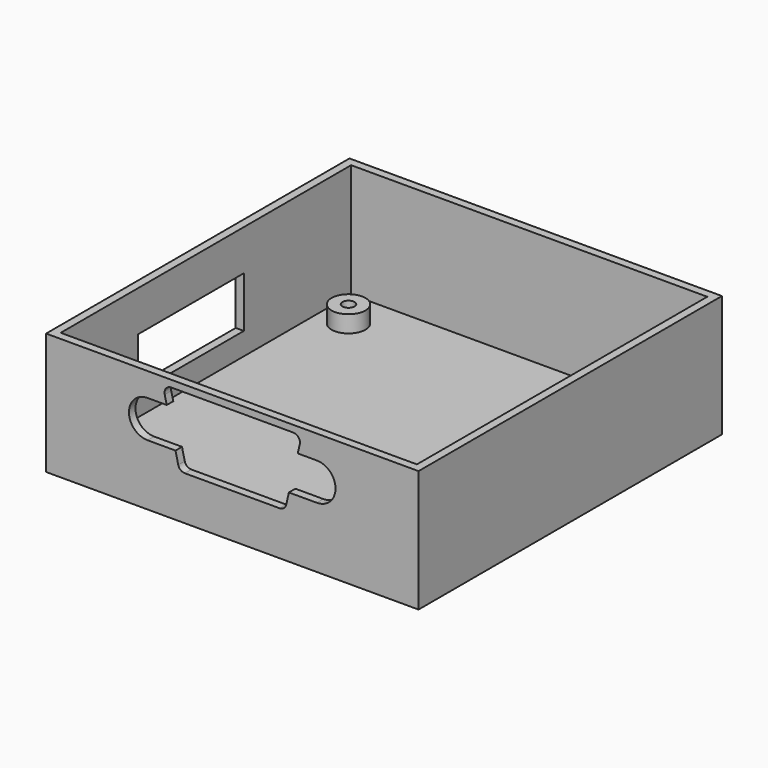
from build123d import *

# Parameters (mm, degrees)
SKETCH_W        = 55
SKETCH_H        = 56
PAD_DEPTH       = 18
SKETCH012_W     = 52.6
SKETCH012_H     = 53.6
POCKET_DEPTH    = 16.8
POCKET001_DEPTH = 1.2
SKETCH014_W     = 19.5
SKETCH014_H     = 7.5
POCKET002_DEPTH = 1.2
SKETCH015_R     = 2.5
SKETCH015_R_2   = 0.9
PAD010_DEPTH    = 2.5


with BuildPart() as part:
    # Sketch → Pad (new body)
    with BuildSketch(Plane.XY):
        Rectangle(SKETCH_W, SKETCH_H)
    extrude(amount=PAD_DEPTH)

    # Sketch012 (on Face6 of Pad) → Pocket (cut)
    with BuildSketch(Plane.XY.offset(18)):
        Rectangle(SKETCH012_W, SKETCH012_H)
    extrude(amount=-POCKET_DEPTH, mode=Mode.SUBTRACT)

    # Sketch013 (on Face6 of Pocket) → Pocket001 (cut)
    with BuildSketch(Plane.XZ.offset(28)):
        with BuildLine():
            ThreePointArc((12.47, 9.000073), (15.239982, 11.74), (12.49, 14.5))
            Line((9.66, 14.5), (12.49, 14.5))
            Line((9.66, 14.5), (9.962666, 15.767791))
            ThreePointArc((9.962666, 15.767791), (9.774923, 16.619593), (8.99, 17))
            Line((-9.01, 17), (8.99, 17))
            ThreePointArc((-9.01, 17), (-9.794923, 16.619593), (-9.982666, 15.767791))
            Line((-9.68, 14.5), (-9.982666, 15.767791))
            Line((-12.51, 14.5), (-9.68, 14.5))
            ThreePointArc((-12.51, 14.5), (-15.26, 11.75), (-12.51, 9))
            Line((-12.51, 9), (-8.39, 9))
            Line((-7.983449, 7.271094), (-8.39, 9))
            ThreePointArc((-7.983449, 7.271094), (-7.630924, 6.716129), (-7.01, 6.5))
            Line((6.99, 6.5), (-7.01, 6.5))
            ThreePointArc((6.99, 6.5), (7.615236, 6.719564), (7.965913, 7.281839))
            Line((7.965913, 7.281839), (8.35, 9))
            Line((8.35, 9), (12.47, 9.000073))
        make_face()
    extrude(amount=-POCKET001_DEPTH, mode=Mode.SUBTRACT)

    # Sketch014 (on Face2 of Pocket001) → Pocket002 (cut)
    with BuildSketch(Plane(origin=(-27.5, 0, 0), x_dir=(0, -1, 0), z_dir=(-1, 0, 0))):
        with Locations((2.75, 8.25)):
            Rectangle(SKETCH014_W, SKETCH014_H)
    extrude(amount=-POCKET002_DEPTH, mode=Mode.SUBTRACT)

    # Sketch015 (on Face31 of Pocket002) → Pad010 (join)
    with BuildSketch(Plane.XY.offset(1.2)):
        with Locations((22, -23.05)):
            Circle(SKETCH015_R)
        with Locations((22, -23.05)):
            Circle(SKETCH015_R_2, mode=Mode.SUBTRACT)
        with Locations((-22, -23.05)):
            Circle(SKETCH015_R)
        with Locations((-22, -23.05)):
            Circle(SKETCH015_R_2, mode=Mode.SUBTRACT)
        with Locations((22, 20.95)):
            Circle(SKETCH015_R)
        with Locations((22, 20.95)):
            Circle(SKETCH015_R_2, mode=Mode.SUBTRACT)
        with Locations((-22, 20.95)):
            Circle(SKETCH015_R)
        with Locations((-22, 20.95)):
            Circle(SKETCH015_R_2, mode=Mode.SUBTRACT)
    extrude(amount=PAD010_DEPTH)


solid = part.part
